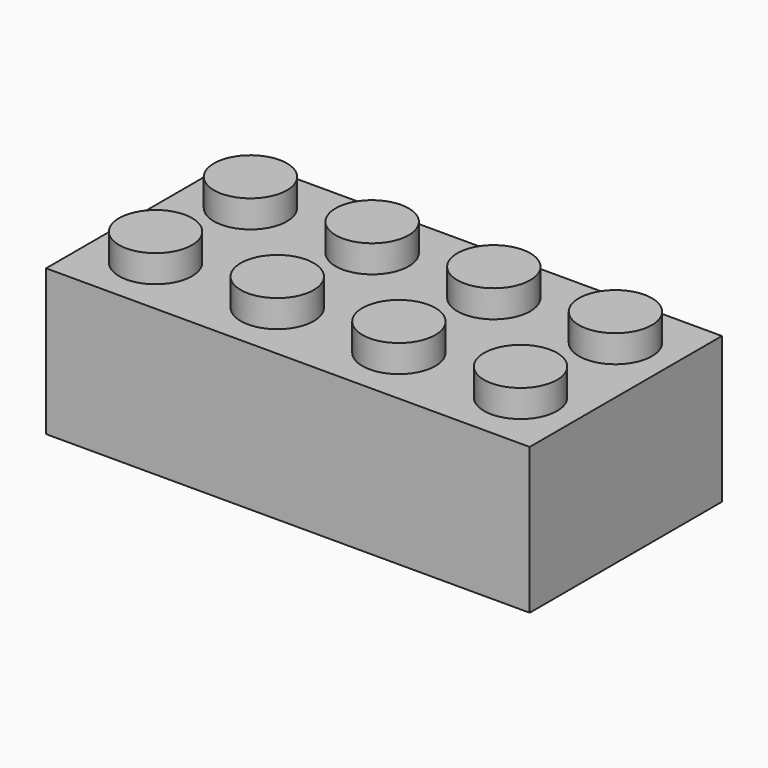
from build123d import *

# Parameters (mm, degrees)
SKETCH_W               = 47.7
SKETCH_H               = 23.7
PAD_DEPTH              = 14.4
SKETCH001_W            = 44.1
SKETCH001_H            = 20.1
POCKET_DEPTH           = 12.6
SKETCH002_R            = 3.6
PAD001_DEPTH           = 2.7
LINEARPATTERN_COUNT    = 4
LINEARPATTERN_PITCH    = 12
SKETCH003_R            = 4.89
SKETCH003_R_2          = 3.6
PAD002_DEPTH           = 12.6
LINEARPATTERN001_COUNT = 3
LINEARPATTERN001_PITCH = 12


with BuildPart() as part:
    # Sketch → Pad (new body)
    with BuildSketch(Plane.XY):
        with Locations((23.85, 11.85)):
            Rectangle(SKETCH_W, SKETCH_H)
    extrude(amount=PAD_DEPTH)

    # Sketch001 (on Face5 of Pad) → Pocket (cut)
    with BuildSketch(Plane(origin=(0, 0, 0), x_dir=(1, 0, 0), z_dir=(0, 0, -1))):
        with Locations((23.85, -11.85)):
            Rectangle(SKETCH001_W, SKETCH001_H)
    extrude(amount=-POCKET_DEPTH, mode=Mode.SUBTRACT)

    # Sketch002 (on Face5 of Pocket) → Pad001 (join)
    with BuildSketch(Plane.XY.offset(14.4)):
        with Locations((6, 17.7)):
            Circle(SKETCH002_R)
        with Locations((6, 6)):
            Circle(SKETCH002_R)
    pad001 = extrude(amount=PAD001_DEPTH)

    # LinearPattern: Pad001 ×4
    with Locations(*[(i * LINEARPATTERN_PITCH, 0, 0) for i in range(1, LINEARPATTERN_COUNT)]):
        add(pad001)

    # Sketch003 (on Face19 of LinearPattern) → Pad002 (join)
    with BuildSketch(Plane(origin=(0, 0, 12.6), x_dir=(1, 0, 0), z_dir=(0, 0, -1))):
        with Locations((12, -12)):
            Circle(SKETCH003_R)
        with Locations((12, -12)):
            Circle(SKETCH003_R_2, mode=Mode.SUBTRACT)
    pad002 = extrude(amount=PAD002_DEPTH)

    # LinearPattern001: Pad002 ×3
    with Locations(*[(i * LINEARPATTERN001_PITCH, 0, 0) for i in range(1, LINEARPATTERN001_COUNT)]):
        add(pad002)


solid = part.part
